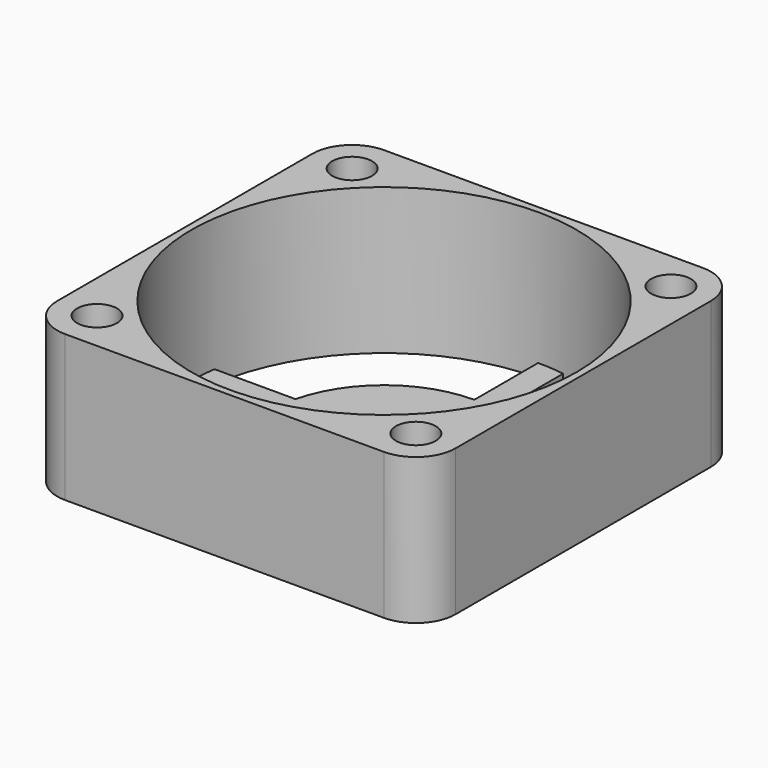
from build123d import *

# Parameters (mm, degrees)
F0_R     = 1.5
F0_R_2   = 14.5
F1_DEPTH = 11
F3_DEPTH = 1


with BuildPart() as f1:
    # F0 (on Top) → F1 (new body)
    with BuildSketch(Plane.XY):
        with BuildLine():
            Line((-12, -15), (12, -15))
            ThreePointArc((12, -15), (14.12132, -14.12132), (15, -12))
            Line((15, -12), (15, 12))
            ThreePointArc((15, 12), (14.12132, 14.12132), (12, 15))
            Line((12, 15), (-12, 15))
            ThreePointArc((-12, 15), (-14.12132, 14.12132), (-15, 12))
            Line((-15, 12), (-15, -12))
            ThreePointArc((-15, -12), (-14.12132, -14.12132), (-12, -15))
        make_face()
        with Locations((-12, -12)):
            Circle(F0_R, mode=Mode.SUBTRACT)
        with Locations((12, -12)):
            Circle(F0_R, mode=Mode.SUBTRACT)
        Circle(F0_R_2, mode=Mode.SUBTRACT)
        with Locations((-12, 12)):
            Circle(F0_R, mode=Mode.SUBTRACT)
        with Locations((12, 12)):
            Circle(F0_R, mode=Mode.SUBTRACT)
    extrude(amount=F1_DEPTH)

    # F2 (on face) → F3 (join)
    with BuildSketch(Plane(origin=(0, 0, 0), x_dir=(1, 0, 0), z_dir=(0, 0, -1))):
        with BuildLine():
            Line((2, -15), (2, -8.261356))
            ThreePointArc((2, -8.261356), (6.680195, -5.255949), (8.5, 0))
            Line((8.5, 0), (15, 0))
            Line((15, 0), (15, 2))
            Line((15, 2), (8.261356, 2))
            ThreePointArc((8.261356, 2), (5.255949, 6.680195), (0, 8.5))
            Line((0, 8.5), (0, 15))
            Line((0, 15), (-2, 15))
            Line((-2, 15), (-2, 8.261356))
            ThreePointArc((-2, 8.261356), (-6.680195, 5.255949), (-8.5, 0))
            Line((-8.5, 0), (-15, 0))
            Line((-15, 0), (-15, -2))
            Line((-15, -2), (-8.261356, -2))
            ThreePointArc((-8.261356, -2), (-5.255949, -6.680195), (0, -8.5))
            Line((0, -8.5), (0, -15))
            Line((0, -15), (2, -15))
        make_face()
    extrude(amount=-F3_DEPTH)


solid = f1.part
